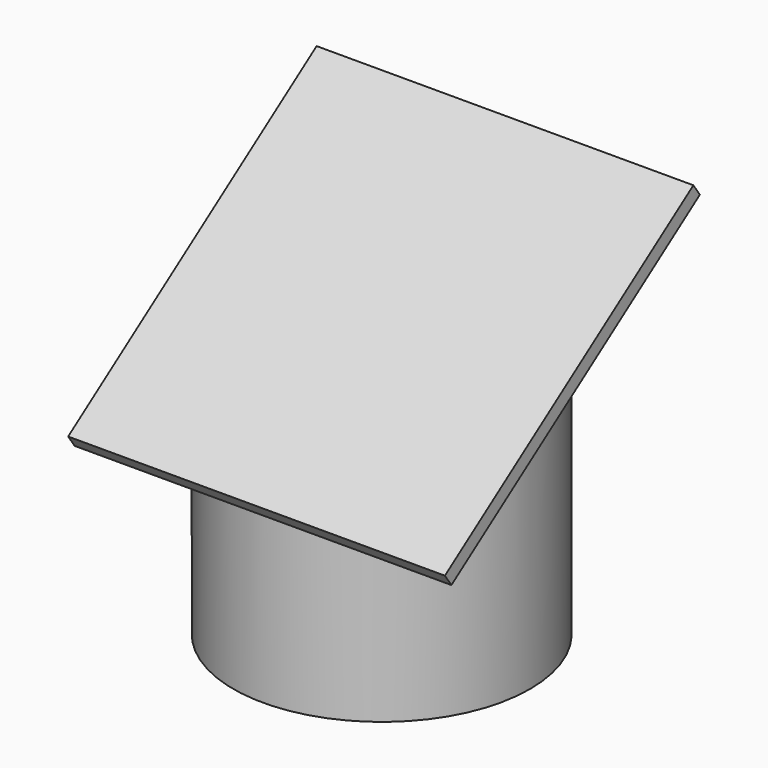
from build123d import *

# Parameters (mm, degrees)
BOX059_W               = 30
BOX059_H               = 13
BOX059_DEPTH           = 13
BOX059_PLACEMENT_ANGLE = 55
BOX057_W               = 90
BOX057_H               = 40
BOX057_DEPTH           = 90
BOX057_PLACEMENT_ANGLE = 55
CYLINDER032_R          = 25.5
CYLINDER032_DEPTH      = 80
CYLINDER033_R          = 31.5
CYLINDER033_DEPTH      = 80
BOX058_W               = 80
BOX058_H               = 80.5
BOX058_DEPTH           = 3
BOX058_ROLL_ANGLE      = 35


with BuildPart() as usb_hole:
    # Box059 → Box059 (new body)
    with BuildSketch(Plane.XY):
        with Locations((15, 6.5)):
            Rectangle(BOX059_W, BOX059_H)
    extrude(amount=BOX059_DEPTH)


with BuildPart() as usb_hole_1:
    # Box059 placement: moved
    add(usb_hole.part.moved(Location((3, 51, 16))).rotate(Axis((3, 51, 16), (-1, 0, 0)), BOX059_PLACEMENT_ANGLE))


with BuildPart() as cube012:
    # Box057 → Box057 (new body)
    with BuildSketch(Plane.XY):
        with Locations((45, 20)):
            Rectangle(BOX057_W, BOX057_H)
    extrude(amount=BOX057_DEPTH)


with BuildPart() as cube012_1:
    # Box057 placement: moved
    add(cube012.part.moved(Location((0, -12, 68))).rotate(Axis((0, -12, 68), (-1, 0, 0)), BOX057_PLACEMENT_ANGLE))


with BuildPart() as cylinder017:
    # Cylinder032 → Cylinder032 (new body)
    with BuildSketch(Plane(origin=(41, 43, 0), x_dir=(1, 0, 0), z_dir=(0, 0, 1))):
        Circle(CYLINDER032_R)
    extrude(amount=CYLINDER032_DEPTH)


with BuildPart() as cut061:
    # Cylinder033 → Cylinder033 (new body)
    with BuildSketch(Plane(origin=(41, 43, 0), x_dir=(1, 0, 0), z_dir=(0, 0, 1))):
        Circle(CYLINDER033_R)
    extrude(amount=CYLINDER033_DEPTH)

    # Cut060: cut Cylinder017
    add(cylinder017.part, mode=Mode.SUBTRACT)

    # Cut061: cut Cube012
    add(cube012_1.part, mode=Mode.SUBTRACT)


with BuildPart() as cut061_1:
    # Cut061 placement: moved
    add(cut061.part.moved(Location((0, 16, -35))))


with BuildPart() as tube_to_tablet_piece:
    # Box058 → Box058 (new body)
    with BuildSketch(Plane.XY):
        with Locations((40, 40.25)):
            Rectangle(BOX058_W, BOX058_H)
    extrude(amount=BOX058_DEPTH)


with BuildPart() as tube_to_tablet_piece_1:
    # Box058 roll: moved
    add(tube_to_tablet_piece.part.rotate(Axis((0, 0, 0), (1, 0, 0)), BOX058_ROLL_ANGLE))


with BuildPart() as tube_to_tablet_piece_2:
    # Box058 placement: moved
    add(tube_to_tablet_piece_1.part.moved(Location((1, 27.5, 0))))

    # Fusion101: union Cut061
    add(cut061_1.part)

    # Cut062: cut USB hole
    add(usb_hole_1.part, mode=Mode.SUBTRACT)


with BuildPart() as tube_to_tablet_piece_3:
    # Cut062 placement: moved
    add(tube_to_tablet_piece_2.part.moved(Location((-37, 74, 1348))))


solid = tube_to_tablet_piece_3.part
